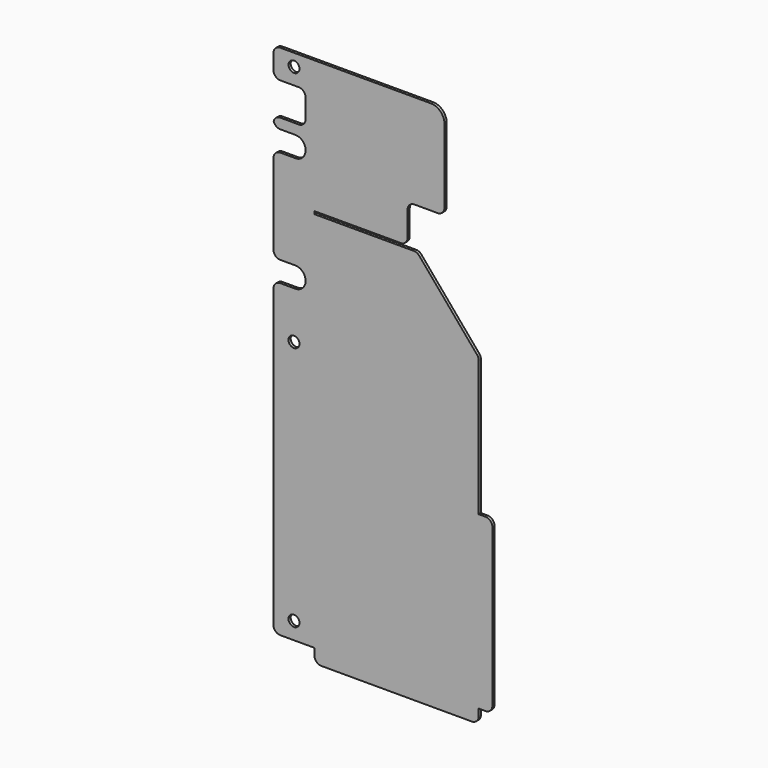
from build123d import *

# Parameters (mm, degrees)
F0_R     = 4
F1_DEPTH = 2


with BuildPart() as f1:
    # F0 (on Front) → F1 (new body)
    with BuildSketch(Plane.XZ):
        with BuildLine():
            Line((125, 125), (120, 125))
            Line((120, 125), (120, 0))
            Line((120, 0), (125, 0))
            ThreePointArc((125, 0), (128.535534, 1.464466), (130, 5))
            Line((130, 5), (130, 120))
            ThreePointArc((130, 120), (128.535534, 123.535534), (125, 125))
        make_face()
        with BuildLine():
            Line((120, -5), (120, 0))
            Line((120, 0), (0, 0))
            Line((0, 0), (0, -5))
            ThreePointArc((0, -5), (1.464466, -8.535534), (5, -10))
            Line((5, -10), (115, -10))
            ThreePointArc((115, -10), (118.535534, -8.535534), (120, -5))
        make_face()
        with BuildLine():
            Line((85, 378), (5, 378))
            Line((5, 378), (-25, 378))
            ThreePointArc((-25, 378), (-28.535534, 376.535534), (-30, 373))
            Line((-30, 373), (-30, 362))
            ThreePointArc((-30, 362), (-28.535534, 358.464466), (-25, 357))
            Line((-25, 357), (-11.5, 357))
            ThreePointArc((-11.5, 357), (-7.964466, 355.535534), (-6.5, 352))
            Line((-6.5, 352), (-6.5, 338))
            ThreePointArc((-6.5, 338), (-7.964466, 334.464466), (-11.5, 333))
            Line((-11.5, 333), (-25, 333))
            ThreePointArc((-25, 333), (-28.061862, 331.952847), (-29.841229, 329.25))
            ThreePointArc((-29.841229, 329.25), (-28.061862, 326.547153), (-25, 325.5))
            Line((-25, 325.5), (-14, 325.5))
            ThreePointArc((-14, 325.5), (-6.5, 318), (-14, 310.5))
            Line((-14, 310.5), (-25, 310.5))
            ThreePointArc((-25, 310.5), (-28.535534, 309.035534), (-30, 305.5))
            Line((-30, 305.5), (-30, 246.499951))
            ThreePointArc((-30, 246.499951), (-28.535534, 242.964417), (-25, 241.499951))
            Line((-25, 241.499951), (-14.027038, 241.499951))
            ThreePointArc((-14.027038, 241.499951), (-14, 241.5), (-13.972962, 241.499951))
            ThreePointArc((-13.972962, 241.499951), (-6.501502, 233.849912), (-14.273098, 226.504974))
            Line((-14.273098, 226.504974), (-25, 226.504974))
            ThreePointArc((-25, 226.504974), (-28.535534, 225.040508), (-30, 221.504974))
            Line((-30, 221.504974), (-30, 5))
            ThreePointArc((-30, 5), (-28.535534, 1.464466), (-25, 0))
            Line((-25, 0), (0, 0))
            Line((0, 0), (120, 0))
            Line((120, 0), (120, 125))
            Line((120, 125), (120, 223.989659))
            ThreePointArc((120, 223.989659), (119.694901, 225.709514), (118.816839, 227.219479))
            Line((118.816839, 227.219479), (76.497931, 277.229821))
            ThreePointArc((76.497931, 277.229821), (74.784767, 278.535918), (72.681092, 279))
            Line((72.681092, 279), (0, 279))
            Line((0, 279), (0, 281))
            Line((0, 281), (63, 281))
            ThreePointArc((63, 281), (66.535534, 282.464466), (68, 286))
            Line((68, 286), (68, 304.011387))
            ThreePointArc((68, 304.011387), (69.464466, 307.546921), (73, 309.011387))
            Line((73, 309.011387), (90, 309.011387))
            ThreePointArc((90, 309.011387), (93.535534, 310.475853), (95, 314.011387))
            Line((95, 314.011387), (95, 368))
            ThreePointArc((95, 368), (92.071068, 375.071068), (85, 378))
        make_face()
        with Locations((-15, 12.5)):
            Circle(F0_R, mode=Mode.SUBTRACT)
        with Locations((-15, 192)):
            Circle(F0_R, mode=Mode.SUBTRACT)
        with Locations((-15, 369)):
            Circle(F0_R, mode=Mode.SUBTRACT)
    extrude(amount=F1_DEPTH)


solid = f1.part
